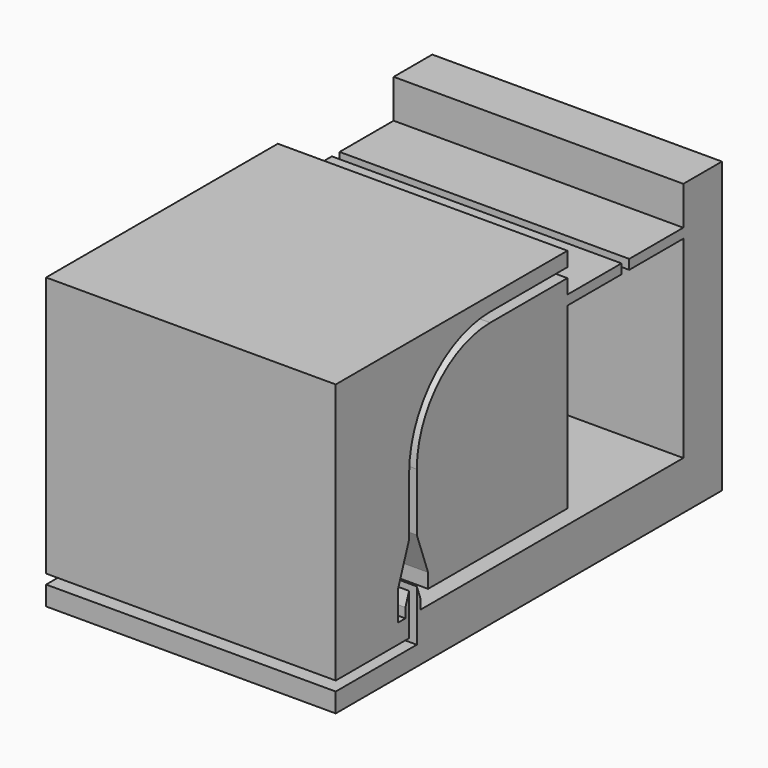
from build123d import *

# Parameters (mm, degrees)
F1_DEPTH = 15


with BuildPart() as f1:
    # F0 (on Right) → F1 (new body, symmetric)
    with BuildSketch(Plane.YZ):
        Polygon((0, 2), (0, 0), (50, 0), (50, 30), (45, 30), (45, 26), (38, 26), (38, 25), (45, 25), (45, 5), (30, 5), (11.955881, 5), (10.97794, 5), (10.97794, 6), (10.5, 7.313131), (10.5, 5), (10.5, 2), align=None)
        with BuildLine():
            Line((30, 26), (30, 27.5))
            Line((30, 27.5), (20, 27.5))
            ThreePointArc((20, 27.5), (13.282486, 24.717514), (10.5, 18))
            Line((10.5, 18), (10.5, 12))
            Line((10.5, 12), (11.955881, 8))
            Line((11.955881, 8), (11.955881, 6.5))
            Line((11.955881, 6.5), (30, 6.5))
            Line((30, 6.5), (30, 25))
            Line((30, 25), (37, 25))
            Line((37, 25), (37, 26))
            Line((37, 26), (30, 26))
        make_face()
        with BuildLine():
            Line((30, 30), (0, 30))
            Line((0, 30), (0, 3))
            Line((0, 3), (9.5, 3))
            Line((9.5, 3), (9.5, 5))
            Line((9.5, 5), (9.5, 7.313131))
            Line((9.5, 7.313131), (9.02206, 6))
            Line((9.02206, 6), (9.02206, 5))
            Line((9.02206, 5), (8.044119, 5))
            Line((8.044119, 5), (8.044119, 8))
            Line((8.044119, 8), (9.5, 12))
            Line((9.5, 12), (9.5, 18))
            ThreePointArc((9.5, 18), (12.575379, 25.424621), (20, 28.5))
            Line((20, 28.5), (30, 28.5))
            Line((30, 28.5), (30, 30))
        make_face()
    extrude(amount=F1_DEPTH, both=True)


solid = f1.part
